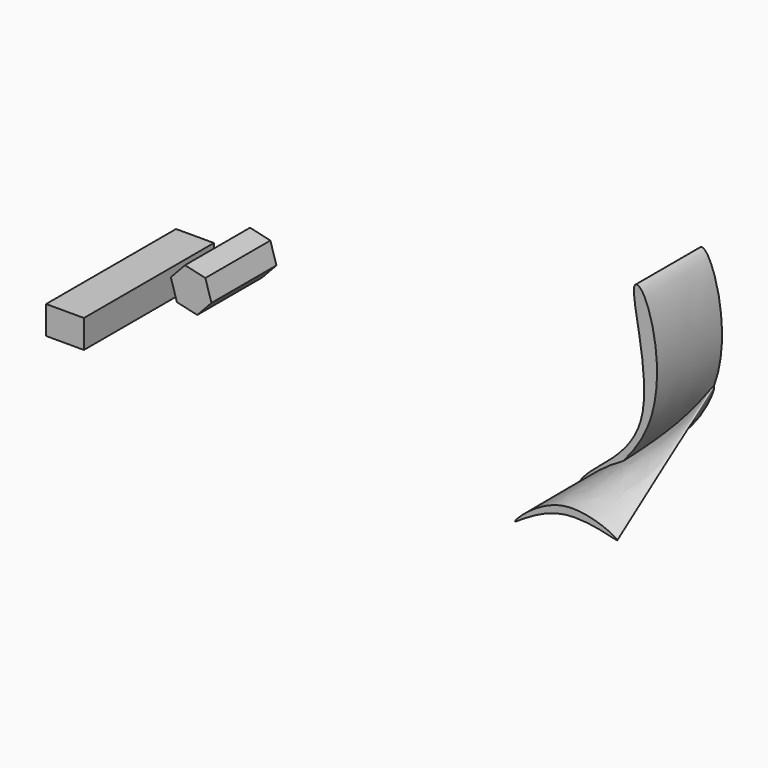
from build123d import *

# Parameters (mm, degrees)
F1_DEPTH = 10
F2_W     = 4.6585276723
F2_H     = 3.4668124281
F3_DEPTH = 20
F5_DEPTH = 10


with BuildPart() as f1:
    # F0 (on Front) → F1 (new body)
    with BuildSketch(Plane.XZ):
        Polygon((-47.1359637175, 2.9619319419), (-45.3845936265, 4.8383993973), (-46.1339770667, 7.2933641153), (-48.6347305979, 7.8718613778), (-50.386100689, 5.9953939224), (-49.6367172487, 3.5404292045), align=None)
    extrude(amount=F1_DEPTH)


with BuildPart() as f3:
    # F2 (on Front) → F3 (new body)
    with BuildSketch(Plane.XZ):
        with Locations((-55.4148294032, 3.0334631447)):
            Rectangle(F2_W, F2_H)
    extrude(amount=F3_DEPTH)


with BuildPart() as f5:
    # F4 (on Front) → F5 (new body)
    with BuildSketch(Plane.XZ):
        with BuildLine():
            add(Edge.make_bspline(
                [(0, 0), (0.6648293711, -0.188981205), (12.4673509988, 8.1259515223), (8.340559845, 23.8866987707), (5.589588775, 23.9680533216), (10.9285147982, 8.1107435481), (1.3861866389, 2.4172402453), (-0.2547598085, 0.0724168), (0, 0)],
                knots=[0, 0, 0, 0, 0.2138302617, 0.4446983734, 0.4952137082, 0.7204356046, 0.9180611464, 1, 1, 1, 1], degree=3))
        make_face()
    extrude(amount=F5_DEPTH)

    # F6 (on Front) → F8 section 0
    with BuildSketch(Plane.XZ):
        with BuildLine():
            add(Edge.make_bspline(
                [(0, 0), (-0.2091170948, 0.2439592883), (5.0464489308, 4.4179518646), (9.8517528194, 12.0119338835), (6.3517293709, 3.0224772556), (0.2088480666, -0.2436454357), (0, 0)],
                knots=[0, 0, 0, 0, 0.2558361605, 0.4966092327, 0.7444929717, 1, 1, 1, 1], degree=3))
        make_face()
    # F7 (on face) → F8 section 1
    with BuildSketch(Plane.XZ.offset(20)):
        with BuildLine():
            add(Edge.make_bspline(
                [(0, 0), (-0.0604682007, 0.1883430084), (5.5409091283, 5.9750842646), (16.1192653382, 0.4275810021), (5.5772304583, 4.5591161226), (0.0583169489, -0.1816424082), (0, 0)],
                knots=[0, 0, 0, 0, 0.2536501341, 0.5053708622, 0.7553738703, 1, 1, 1, 1], degree=3))
        make_face()
    loft()


solid = Compound([f1.part, f3.part, f5.part])
